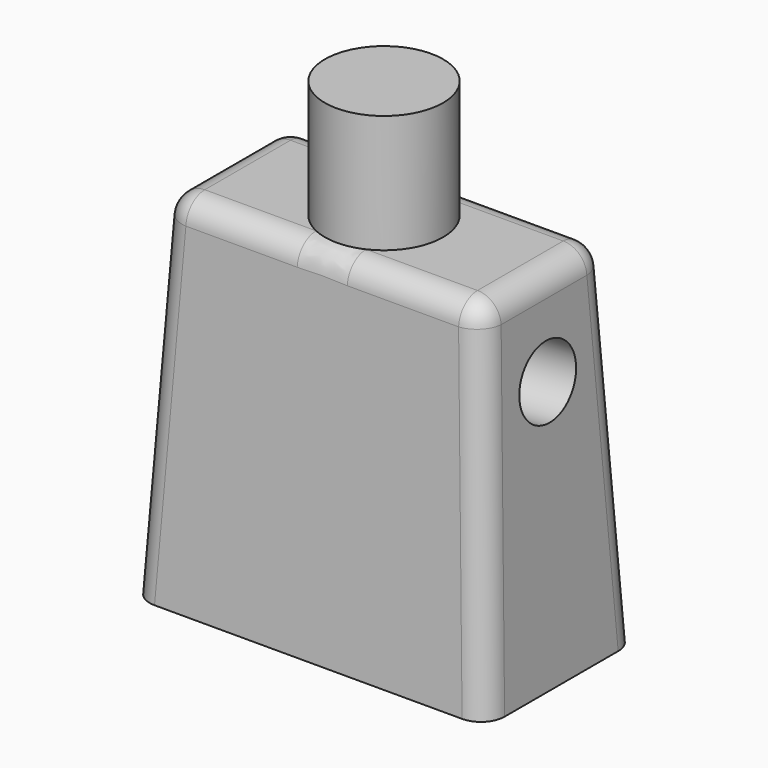
from build123d import *

# Parameters (mm, degrees)
F0_W      = 15
F0_H      = 8
F1_DEPTH  = 15
F1_TAPER  = 3
F2_R      = 2.5
F3_DEPTH  = 5
F4_R      = 1
F6_R      = 1.5
F7_DEPTH  = 1.5
F8_R      = 1.5
F9_DEPTH  = 3
F10_R     = 1.5
F11_DEPTH = 3


with BuildPart() as f1:
    # F0 (on Top) → F1 (new body)
    with BuildSketch(Plane.XY):
        Rectangle(F0_W, F0_H)
    extrude(amount=F1_DEPTH, taper=F1_TAPER)

    # F2 (on face) → F3 (join)
    with BuildSketch(Plane.XY.offset(15)):
        Circle(F2_R)
    extrude(amount=F3_DEPTH)

    # F4
    f4_edges = [f1.edges().sort_by_distance(p)[0] for p in [
        (7.106942, -3.606942, 7.5),
        (7.106942, 3.606942, 7.5),
        (0, 3.213883, 15),
        (6.713883, 0, 15),
        (0, -3.213883, 15),
        (-6.713883, 0, 15),
        (-7.106942, -3.606942, 7.5),
        (-7.106942, 3.606942, 7.5),
    ]]
    fillet(f4_edges, radius=F4_R)

    # F6 (on Right) → F7 (join, symmetric)
    with BuildSketch(Plane.YZ):
        with Locations((0, 11.0523359562)):
            Circle(F6_R)
    extrude(amount=F7_DEPTH, both=True)

    # F8 (on face) → F9 (cut)
    with BuildSketch(Plane(origin=(-7.4794571076, 0, 0.3919817373), x_dir=(0, -1, 0), z_dir=(-0.9986295348, 0, 0.0523359562))):
        with Locations((0, 10.6791009514)):
            Circle(F8_R)
    extrude(amount=-F9_DEPTH, mode=Mode.SUBTRACT)

    # F10 (on face) → F11 (cut)
    with BuildSketch(Plane(origin=(7.4794571076, 0, 0.3919817373), x_dir=(0, 1, 0), z_dir=(0.9986295348, 0, 0.0523359562))):
        with Locations((0, 10.6791009514)):
            Circle(F10_R)
    extrude(amount=-F11_DEPTH, mode=Mode.SUBTRACT)


solid = f1.part
